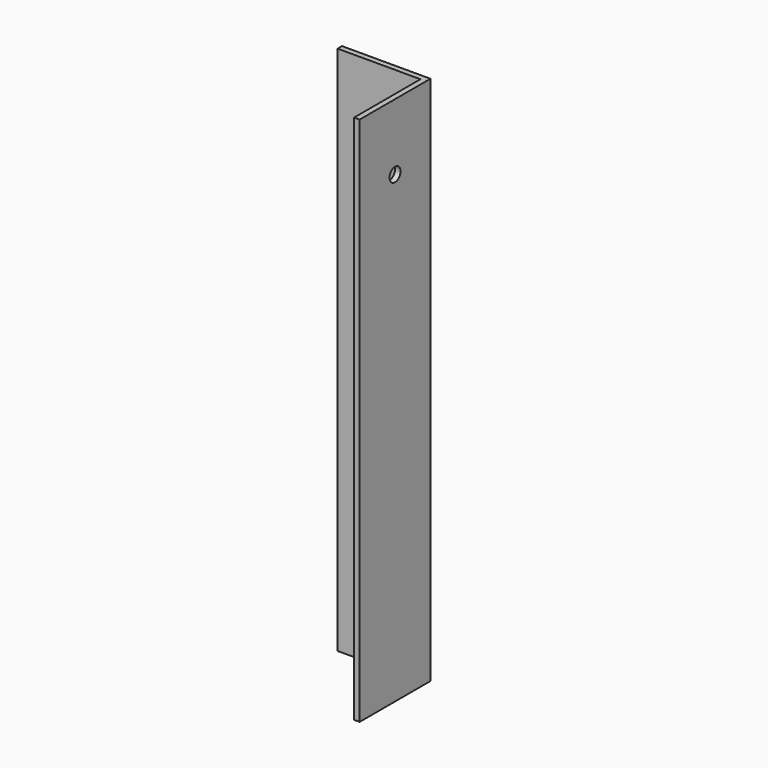
from build123d import *

# Parameters (mm, degrees)
F1_DEPTH = 304.8
F2_R     = 3.9624
F3_DEPTH = 50.801
F4_R     = 3.9624
F5_DEPTH = 50.801


with BuildPart() as f1:
    # F0 (on Top) → F1 (new body)
    with BuildSketch(Plane.XY):
        Polygon((0, 0), (-50.8, 0), (-50.8, -3.175), (-3.175, -3.175), (-3.175, -50.795514), (0, -50.8), align=None)
    extrude(amount=-F1_DEPTH)

    # F2 (on Right) → F3 (cut, through all)
    with BuildSketch(Plane.YZ):
        with Locations((-25.4, -38.1)):
            Circle(F2_R)
    extrude(amount=-F3_DEPTH, mode=Mode.SUBTRACT)

    # F4 (on Front) → F5 (cut, through all)
    with BuildSketch(Plane.XZ):
        with Locations((-25.4, -38.1)):
            Circle(F4_R)
    extrude(amount=F5_DEPTH, mode=Mode.SUBTRACT)


solid = f1.part
